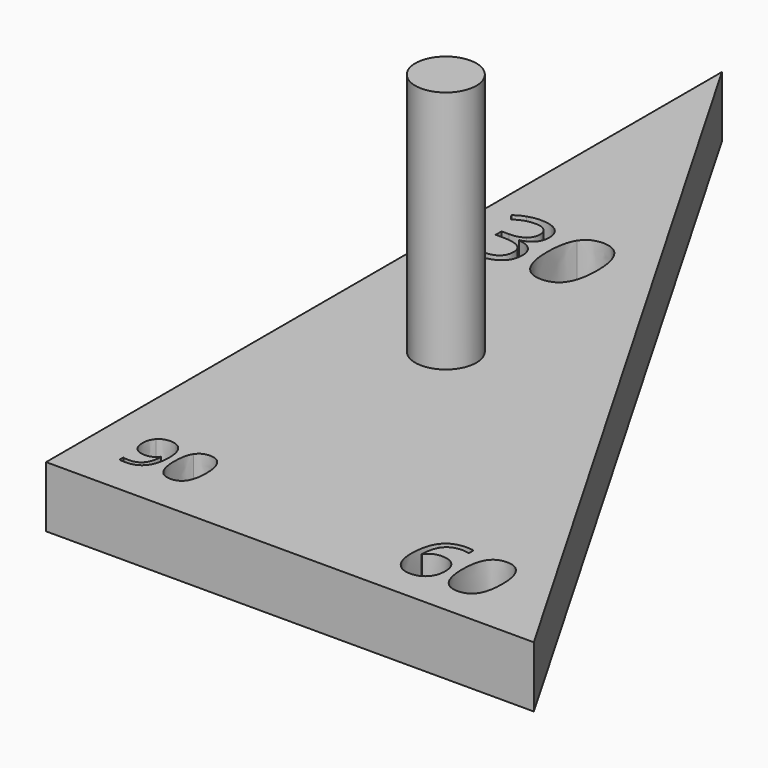
from build123d import *

# Parameters (mm, degrees)
F1_DEPTH = 6.35
F2_R     = 3.175
F3_DEPTH = 25.4


with BuildPart() as f1:
    # F0 (on Top) → F1 (new body)
    with BuildSketch(Plane.XY):
        Polygon((0, 87.9881810245), (0, 0), (50.8, 0), align=None)
        with BuildLine():
            add(Edge.make_bspline(
                [(7.1177864202, 8.1707244078), (7.3253515095, 7.66426559), (7.3253515095, 6.9757030005)],
                knots=[0, 0, 0, 1, 1, 1], degree=2))
            add(Edge.make_bspline(
                [(7.3253515095, 6.9757030005), (7.3253515095, 4.0066919637), (5.028297855, 4.0066919637)],
                knots=[0, 0, 0, 1, 1, 1], degree=2))
            add(Edge.make_bspline(
                [(5.028297855, 4.0066919637), (4.6264518421, 4.0066919637), (4.3917649145, 4.0764338337)],
                knots=[0, 0, 0, 1, 1, 1], degree=2))
            Line((4.3917649145, 4.0764338337), (4.3917649145, 4.5712690065))
            add(Edge.make_bspline(
                [(4.3917649145, 4.5712690065), (4.6685183669, 4.4816008879), (5.0205487583, 4.4816008879)],
                knots=[0, 0, 0, 1, 1, 1], degree=2))
            add(Edge.make_bspline(
                [(5.0205487583, 4.4816008879), (5.8508091153, 4.4816008879), (6.2747954044, 4.9952552955)],
                knots=[0, 0, 0, 1, 1, 1], degree=2))
            add(Edge.make_bspline(
                [(6.2747954044, 4.9952552955), (6.6987816934, 5.5089097031), (6.7364201629, 6.5705359463)],
                knots=[0, 0, 0, 1, 1, 1], degree=2))
            Line((6.7364201629, 6.5705359463), (6.6954606519, 6.5705359463))
            add(Edge.make_bspline(
                [(6.6954606519, 6.5705359463), (6.5050542767, 6.2838193697), (6.1901088479, 6.1332654916)],
                knots=[0, 0, 0, 1, 1, 1], degree=2))
            add(Edge.make_bspline(
                [(6.1901088479, 6.1332654916), (5.8751634192, 5.9827116135), (5.481066503, 5.9827116135)],
                knots=[0, 0, 0, 1, 1, 1], degree=2))
            add(Edge.make_bspline(
                [(5.481066503, 5.9827116135), (4.8102161345, 5.9827116135), (4.4155657114, 6.3840041194)],
                knots=[0, 0, 0, 1, 1, 1], degree=2))
            add(Edge.make_bspline(
                [(4.4155657114, 6.3840041194), (4.0209152884, 6.7852966253), (4.0209152884, 7.5048556014)],
                knots=[0, 0, 0, 1, 1, 1], degree=2))
            add(Edge.make_bspline(
                [(4.0209152884, 7.5048556014), (4.0209152884, 8.2930494337), (4.4620602914, 8.7496926301)],
                knots=[0, 0, 0, 1, 1, 1], degree=2))
            add(Edge.make_bspline(
                [(4.4620602914, 8.7496926301), (4.9032052945, 9.2063358265), (5.6227642706, 9.2063358265)],
                knots=[0, 0, 0, 1, 1, 1], degree=2))
            add(Edge.make_bspline(
                [(5.6227642706, 9.2063358265), (6.1386327058, 9.2063358265), (6.5244270184, 8.941759526)],
                knots=[0, 0, 0, 1, 1, 1], degree=2))
            add(Edge.make_bspline(
                [(6.5244270184, 8.941759526), (6.910221331, 8.6771832256), (7.1177864202, 8.1707244078)],
                knots=[0, 0, 0, 1, 1, 1], degree=2))
        make_face(mode=Mode.SUBTRACT)
        with BuildLine():
            add(Edge.make_bspline(
                [(10.9762830529, 8.5460020892), (11.4035903834, 7.8779192552), (11.4035903834, 6.612602471)],
                knots=[0, 0, 0, 1, 1, 1], degree=2))
            add(Edge.make_bspline(
                [(11.4035903834, 6.612602471), (11.4035903834, 5.3007911069), (10.9901207255, 4.6537415353)],
                knots=[0, 0, 0, 1, 1, 1], degree=2))
            add(Edge.make_bspline(
                [(10.9901207255, 4.6537415353), (10.5766510677, 4.0066919637), (9.7253574483, 4.0066919637)],
                knots=[0, 0, 0, 1, 1, 1], degree=2))
            add(Edge.make_bspline(
                [(9.7253574483, 4.0066919637), (8.9094882707, 4.0066919637), (8.483841461, 4.6692397286)],
                knots=[0, 0, 0, 1, 1, 1], degree=2))
            add(Edge.make_bspline(
                [(8.483841461, 4.6692397286), (8.0581946513, 5.3317874936), (8.0581946513, 6.612602471)],
                knots=[0, 0, 0, 1, 1, 1], degree=2))
            add(Edge.make_bspline(
                [(8.0581946513, 6.612602471), (8.0581946513, 7.9332699457), (8.4700037884, 8.5736774344)],
                knots=[0, 0, 0, 1, 1, 1], degree=2))
            add(Edge.make_bspline(
                [(8.4700037884, 8.5736774344), (8.8818129255, 9.2140849232), (9.7253574483, 9.2140849232)],
                knots=[0, 0, 0, 1, 1, 1], degree=2))
            add(Edge.make_bspline(
                [(9.7253574483, 9.2140849232), (10.5489757225, 9.2140849232), (10.9762830529, 8.5460020892)],
                knots=[0, 0, 0, 1, 1, 1], degree=2))
        make_face(mode=Mode.SUBTRACT)
        with BuildLine():
            add(Edge.make_bspline(
                [(33.8198292579, 3.8980552581), (33.2467805147, 4.6331574968), (33.2467805147, 5.9433772467)],
                knots=[0, 0, 0, 1, 1, 1], degree=2))
            add(Edge.make_bspline(
                [(33.2467805147, 5.9433772467), (33.2467805147, 7.8011309342), (33.9687805558, 8.7210431166)],
                knots=[0, 0, 0, 1, 1, 1], degree=2))
            add(Edge.make_bspline(
                [(33.9687805558, 8.7210431166), (34.690780597, 9.6409552989), (36.1044387482, 9.6409552989)],
                knots=[0, 0, 0, 1, 1, 1], degree=2))
            add(Edge.make_bspline(
                [(36.1044387482, 9.6409552989), (36.5912888237, 9.6409552989), (36.8712620966, 9.5595837565)],
                knots=[0, 0, 0, 1, 1, 1], degree=2))
            Line((36.8712620966, 9.5595837565), (36.8712620966, 8.9430908847))
            add(Edge.make_bspline(
                [(36.8712620966, 8.9430908847), (36.5388800337, 9.0506668221), (36.1127138203, 9.0506668221)],
                knots=[0, 0, 0, 1, 1, 1], degree=2))
            add(Edge.make_bspline(
                [(36.1127138203, 9.0506668221), (35.0990174875, 9.0506668221), (34.5645857474, 8.4196925741)],
                knots=[0, 0, 0, 1, 1, 1], degree=2))
            add(Edge.make_bspline(
                [(34.5645857474, 8.4196925741), (34.0301540073, 7.7887183261), (33.979124396, 6.4343648583)],
                knots=[0, 0, 0, 1, 1, 1], degree=2))
            Line((33.979124396, 6.4343648583), (34.0301540073, 6.4343648583))
            add(Edge.make_bspline(
                [(34.0301540073, 6.4343648583), (34.5045914746, 7.1763629903), (35.5307004156, 7.1763629903)],
                knots=[0, 0, 0, 1, 1, 1], degree=2))
            add(Edge.make_bspline(
                [(35.5307004156, 7.1763629903), (36.3802744851, 7.1763629903), (36.8691933286, 6.6633085198)],
                knots=[0, 0, 0, 1, 1, 1], degree=2))
            add(Edge.make_bspline(
                [(36.8691933286, 6.6633085198), (37.3581121721, 6.1502540493), (37.3581121721, 5.2717172275)],
                knots=[0, 0, 0, 1, 1, 1], degree=2))
            add(Edge.make_bspline(
                [(37.3581121721, 5.2717172275), (37.3581121721, 4.2883628257), (36.821611664, 3.7256579226)],
                knots=[0, 0, 0, 1, 1, 1], degree=2))
            add(Edge.make_bspline(
                [(36.821611664, 3.7256579226), (36.2851111558, 3.1629530195), (35.3707156883, 3.1629530195)],
                knots=[0, 0, 0, 1, 1, 1], degree=2))
            add(Edge.make_bspline(
                [(35.3707156883, 3.1629530195), (34.3928780012, 3.1629530195), (33.8198292579, 3.8980552581)],
                knots=[0, 0, 0, 1, 1, 1], degree=2))
        make_face(mode=Mode.SUBTRACT)
        with BuildLine():
            add(Edge.make_bspline(
                [(41.8638889332, 8.8182752138), (42.3962519053, 7.9859408779), (42.3962519053, 6.4095396419)],
                knots=[0, 0, 0, 1, 1, 1], degree=2))
            add(Edge.make_bspline(
                [(42.3962519053, 6.4095396419), (42.3962519053, 4.7752129012), (41.8811286668, 3.9690829603)],
                knots=[0, 0, 0, 1, 1, 1], degree=2))
            add(Edge.make_bspline(
                [(41.8811286668, 3.9690829603), (41.3660054282, 3.1629530195), (40.3054170201, 3.1629530195)],
                knots=[0, 0, 0, 1, 1, 1], degree=2))
            add(Edge.make_bspline(
                [(40.3054170201, 3.1629530195), (39.2889623299, 3.1629530195), (38.7586681259, 3.9883914619)],
                knots=[0, 0, 0, 1, 1, 1], degree=2))
            add(Edge.make_bspline(
                [(38.7586681259, 3.9883914619), (38.2283739218, 4.8138299044), (38.2283739218, 6.4095396419)],
                knots=[0, 0, 0, 1, 1, 1], degree=2))
            add(Edge.make_bspline(
                [(38.2283739218, 6.4095396419), (38.2283739218, 8.0548998121), (38.7414283923, 8.8527546809)],
                knots=[0, 0, 0, 1, 1, 1], degree=2))
            add(Edge.make_bspline(
                [(38.7414283923, 8.8527546809), (39.2544828628, 9.6506095497), (40.3054170201, 9.6506095497)],
                knots=[0, 0, 0, 1, 1, 1], degree=2))
            add(Edge.make_bspline(
                [(40.3054170201, 9.6506095497), (41.3315259611, 9.6506095497), (41.8638889332, 8.8182752138)],
                knots=[0, 0, 0, 1, 1, 1], degree=2))
        make_face(mode=Mode.SUBTRACT)
        with BuildLine():
            add(Edge.make_bspline(
                [(6.6219470415, 57.8936907057), (7.2598688227, 57.3672755773), (7.2598688227, 56.4492905752)],
                knots=[0, 0, 0, 1, 1, 1], degree=2))
            add(Edge.make_bspline(
                [(7.2598688227, 56.4492905752), (7.2598688227, 55.6920826073), (6.8354520279, 55.2114802898)],
                knots=[0, 0, 0, 1, 1, 1], degree=2))
            add(Edge.make_bspline(
                [(6.8354520279, 55.2114802898), (6.4110352331, 54.7308779723), (5.6330818415, 54.5683721527)],
                knots=[0, 0, 0, 1, 1, 1], degree=2))
            Line((5.6330818415, 54.5683721527), (5.6330818415, 54.5251525198))
            add(Edge.make_bspline(
                [(5.6330818415, 54.5251525198), (6.5839137646, 54.4075951184), (7.0429062657, 53.9209420523)],
                knots=[0, 0, 0, 1, 1, 1], degree=2))
            add(Edge.make_bspline(
                [(7.0429062657, 53.9209420523), (7.5018987668, 53.4342889862), (7.5018987668, 52.6459628826)],
                knots=[0, 0, 0, 1, 1, 1], degree=2))
            add(Edge.make_bspline(
                [(7.5018987668, 52.6459628826), (7.5018987668, 51.517066072), (6.7187590191, 50.9085336412)],
                knots=[0, 0, 0, 1, 1, 1], degree=2))
            add(Edge.make_bspline(
                [(6.7187590191, 50.9085336412), (5.9356192715, 50.3000012104), (4.493812319, 50.3000012104)],
                knots=[0, 0, 0, 1, 1, 1], degree=2))
            add(Edge.make_bspline(
                [(4.493812319, 50.3000012104), (3.8662632497, 50.3000012104), (3.3450344773, 50.3950844027)],
                knots=[0, 0, 0, 1, 1, 1], degree=2))
            add(Edge.make_bspline(
                [(3.3450344773, 50.3950844027), (2.8238057049, 50.490167595), (2.3328306755, 50.7270111832)],
                knots=[0, 0, 0, 1, 1, 1], degree=2))
            Line((2.3328306755, 50.7270111832), (2.3328306755, 51.5810311287))
            add(Edge.make_bspline(
                [(2.3328306755, 51.5810311287), (2.846279914, 51.3268996874), (3.4271517798, 51.1946476108)],
                knots=[0, 0, 0, 1, 1, 1], degree=2))
            add(Edge.make_bspline(
                [(3.4271517798, 51.1946476108), (4.0080236455, 51.0623955342), (4.52665924, 51.0623955342)],
                knots=[0, 0, 0, 1, 1, 1], degree=2))
            add(Edge.make_bspline(
                [(4.52665924, 51.0623955342), (6.5735410527, 51.0623955342), (6.5735410527, 52.6667083064)],
                knots=[0, 0, 0, 1, 1, 1], degree=2))
            add(Edge.make_bspline(
                [(6.5735410527, 52.6667083064), (6.5735410527, 54.1050576883), (4.3157474316, 54.1050576883)],
                knots=[0, 0, 0, 1, 1, 1], degree=2))
            Line((4.3157474316, 54.1050576883), (3.5377940399, 54.1050576883))
            Line((3.5377940399, 54.1050576883), (3.5377940399, 54.8760959387))
            Line((3.5377940399, 54.8760959387), (4.3261201435, 54.8760959387))
            add(Edge.make_bspline(
                [(4.3261201435, 54.8760959387), (5.2492915016, 54.8760959387), (5.7895369124, 55.284089273)],
                knots=[0, 0, 0, 1, 1, 1], degree=2))
            add(Edge.make_bspline(
                [(5.7895369124, 55.284089273), (6.3297823233, 55.6920826073), (6.3297823233, 56.4164436542)],
                knots=[0, 0, 0, 1, 1, 1], degree=2))
            add(Edge.make_bspline(
                [(6.3297823233, 56.4164436542), (6.3297823233, 56.9938579493), (5.9330260936, 57.3240559445)],
                knots=[0, 0, 0, 1, 1, 1], degree=2))
            add(Edge.make_bspline(
                [(5.9330260936, 57.3240559445), (5.5362698638, 57.6542539396), (4.8551284498, 57.6542539396)],
                knots=[0, 0, 0, 1, 1, 1], degree=2))
            add(Edge.make_bspline(
                [(4.8551284498, 57.6542539396), (4.3364928553, 57.6542539396), (3.8775003543, 57.5133579364)],
                knots=[0, 0, 0, 1, 1, 1], degree=2))
            add(Edge.make_bspline(
                [(3.8775003543, 57.5133579364), (3.4185078532, 57.3724619333), (2.8289920608, 56.9938579493)],
                knots=[0, 0, 0, 1, 1, 1], degree=2))
            Line((2.8289920608, 56.9938579493), (2.3760503084, 57.5989328095))
            add(Edge.make_bspline(
                [(2.3760503084, 57.5989328095), (2.8618389818, 57.9827231494), (3.4963031924, 58.2014144917)],
                knots=[0, 0, 0, 1, 1, 1], degree=2))
            add(Edge.make_bspline(
                [(3.4963031924, 58.2014144917), (4.1307674029, 58.4201058341), (4.834383026, 58.4201058341)],
                knots=[0, 0, 0, 1, 1, 1], degree=2))
            add(Edge.make_bspline(
                [(4.834383026, 58.4201058341), (5.9840252604, 58.4201058341), (6.6219470415, 57.8936907057)],
                knots=[0, 0, 0, 1, 1, 1], degree=2))
        make_face(mode=Mode.SUBTRACT)
        with BuildLine():
            add(Edge.make_bspline(
                [(13.2587538651, 57.3888853938), (13.9260649966, 56.3455634563), (13.9260649966, 54.3695618415)],
                knots=[0, 0, 0, 1, 1, 1], degree=2))
            add(Edge.make_bspline(
                [(13.9260649966, 54.3695618415), (13.9260649966, 52.3209512434), (13.2803636815, 51.3104762269)],
                knots=[0, 0, 0, 1, 1, 1], degree=2))
            add(Edge.make_bspline(
                [(13.2803636815, 51.3104762269), (12.6346623664, 50.3000012104), (11.3052264593, 50.3000012104)],
                knots=[0, 0, 0, 1, 1, 1], degree=2))
            add(Edge.make_bspline(
                [(11.3052264593, 50.3000012104), (10.0311116823, 50.3000012104), (9.3663937288, 51.3346792213)],
                knots=[0, 0, 0, 1, 1, 1], degree=2))
            add(Edge.make_bspline(
                [(9.3663937288, 51.3346792213), (8.7016757752, 52.3693572322), (8.7016757752, 54.3695618415)],
                knots=[0, 0, 0, 1, 1, 1], degree=2))
            add(Edge.make_bspline(
                [(8.7016757752, 54.3695618415), (8.7016757752, 56.432002722), (9.3447839123, 57.4321050266)],
                knots=[0, 0, 0, 1, 1, 1], degree=2))
            add(Edge.make_bspline(
                [(9.3447839123, 57.4321050266), (9.9878920494, 58.4322073313), (11.3052264593, 58.4322073313)],
                knots=[0, 0, 0, 1, 1, 1], degree=2))
            add(Edge.make_bspline(
                [(11.3052264593, 58.4322073313), (12.5914427335, 58.4322073313), (13.2587538651, 57.3888853938)],
                knots=[0, 0, 0, 1, 1, 1], degree=2))
        make_face(mode=Mode.SUBTRACT)
    extrude(amount=F1_DEPTH)

    # F2 (on face) → F3 (join)
    with BuildSketch(Plane.XY.offset(6.35)):
        with Locations((13.2195614278, 35.5153493583)):
            Circle(F2_R)
    extrude(amount=F3_DEPTH)


solid = f1.part
